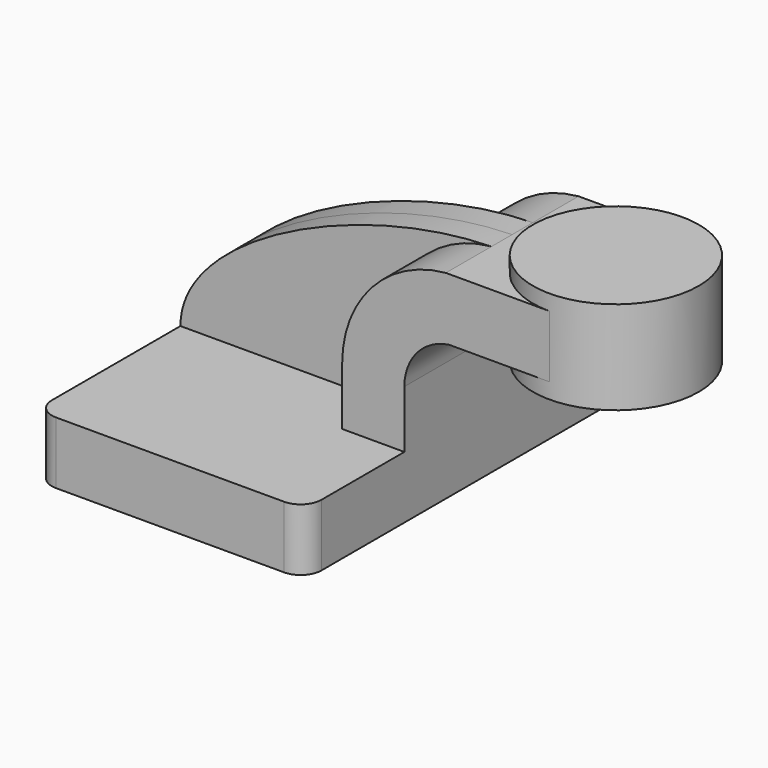
from build123d import *

# Parameters (mm, degrees)
F1_DEPTH = 63.5
F0_W     = 25.4
F0_H     = 19.05
F2_DEPTH = 25.4
F3_DEPTH = 7.9375
F5_R     = 6.35


with BuildPart() as f1:
    # F0 (on Front) → F1 (new body, symmetric)
    with BuildSketch(Plane.XZ):
        Polygon((22.225, 9.525), (-41.275, 9.525), (-41.275, -9.525), (41.275, -9.525), (41.275, 9.525), align=None)
    extrude(amount=F1_DEPTH, both=True)

    # F0 (on Front) → F2 (join, symmetric)
    with BuildSketch(Plane.XZ):
        with Locations((73.025, 52.4002)):
            Rectangle(F0_W, F0_H)
        with BuildLine():
            Line((22.225, 27.1454148694), (22.225, 9.525))
            Line((22.225, 9.525), (41.275, 9.525))
            Line((41.275, 9.525), (41.275, 27.1454148694))
            ThreePointArc((41.275, 27.1454148694), (45.1912214489, 37.5858765721), (55.0076917247, 42.8752))
            Line((55.0076917247, 42.8752), (60.325, 42.8752))
            Line((60.325, 42.8752), (60.325, 61.9252))
            Line((60.325, 61.9252), (53.9684640074, 61.9252))
            ThreePointArc((53.9684640074, 61.9252), (31.3539657162, 50.6894213303), (22.225, 27.1454148694))
        make_face()
    extrude(amount=F2_DEPTH, both=True)

    # F0 (on Front) → F3 (join, symmetric)
    with BuildSketch(Plane.XZ):
        with BuildLine():
            add(Edge.make_bspline(
                [(-41.275, 9.525), (-41.3264594972, 35.7253178954), (13.0891343579, 61.1484050751), (53.9684640074, 61.9252)],
                knots=[0, 0, 0, 0, 108.7064781702, 108.7064781702, 108.7064781702, 108.7064781702], degree=3))
            Line((-41.275, 9.525), (22.225, 9.525))
            Line((22.225, 9.525), (22.225, 27.1454148694))
            ThreePointArc((22.225, 27.1454148694), (31.3539657162, 50.6894213303), (53.9684640074, 61.9252))
        make_face()
    extrude(amount=F3_DEPTH, both=True)

    # F0 (on Front) → F4 (revolve)
    with BuildSketch(Plane.XZ):
        Polygon((85.725, 66.675), (85.725, 61.9252), (85.725, 42.8752), (85.725, 38.1), (111.125, 38.1), (111.125, 66.675), align=None)
    revolve(axis=Axis((85.725, 0, 52.3875), (0, 0, 1)))

    # F5
    f5_edges = [f1.edges().sort_by_distance(p)[0] for p in [
        (41.275, -63.5, 0),
        (-41.275, -63.5, 0),
        (41.275, 63.5, 0),
        (-41.275, 63.5, 0),
    ]]
    fillet(f5_edges, radius=F5_R)


solid = f1.part
